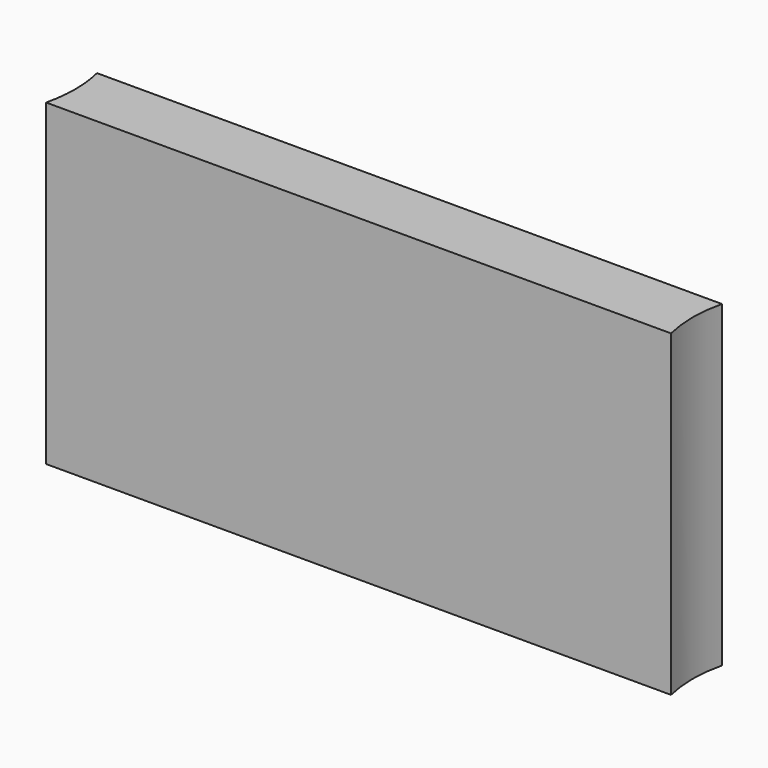
from build123d import *

# Parameters (mm, degrees)
F1_DEPTH = 10


with BuildPart() as f1:
    # F0 (on Top) → F1 (new body)
    with BuildSketch(Plane.XY):
        with BuildLine():
            ThreePointArc((-9.817895, 1), (-9.729576, 0.503463), (-9.7, 0))
            ThreePointArc((-9.7, 0), (-9.729576, -0.503463), (-9.817895, -1))
            Line((-9.817895, -1), (0, -1))
            Line((0, -1), (0, 0))
            Line((0, 0), (0, 1))
            Line((0, 1), (-9.817895, 1))
        make_face()
        with BuildLine():
            Line((9.817895, 1), (0, 1))
            Line((0, 1), (0, 0))
            Line((0, 0), (0, -1))
            Line((0, -1), (9.817895, -1))
            ThreePointArc((9.817895, -1), (9.7, 0), (9.817895, 1))
        make_face()
    extrude(amount=F1_DEPTH)


solid = f1.part
